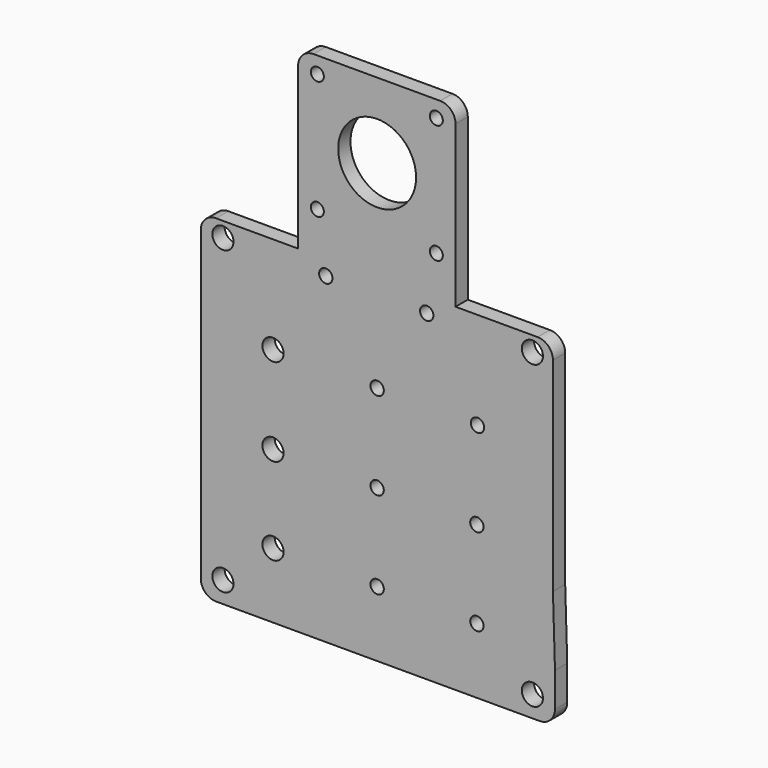
from build123d import *

# Parameters (mm, degrees)
F0_R     = 4.378782
F0_R_2   = 2.76225
F0_R_3   = 2.687849
F0_R_4   = 16.129
F1_DEPTH = 6.35


with BuildPart() as f1:
    # F0 (on Front) → F1 (new body)
    with BuildSketch(Plane.XZ):
        with BuildLine():
            ThreePointArc((72.798445, 70.203419), (70.938573, 74.693547), (66.448445, 76.553419))
            Line((66.448445, 76.553419), (32.463245, 76.553419))
            Line((32.463245, 76.553419), (-32.713075, 76.553419))
            Line((-32.713075, 76.553419), (-66.68793, 76.553419))
            ThreePointArc((-66.68793, 76.553419), (-71.178058, 74.693547), (-73.03793, 70.203419))
            Line((-73.03793, 70.203419), (-73.03793, -14.149981))
            Line((-73.03793, -14.149981), (-73.03793, -42.597981))
            Line((-73.03793, -42.597981), (-73.03793, -56.796581))
            ThreePointArc((-73.03793, -56.796581), (-71.178058, -61.286709), (-66.68793, -63.146581))
            Line((-66.68793, -63.146581), (67.294603, -63.146581))
            ThreePointArc((67.294603, -63.146581), (71.784731, -61.286709), (73.644603, -56.796581))
            Line((73.644603, -56.796581), (73.644603, -42.585394))
            Line((73.644603, -42.585394), (72.798445, -14.149981))
            Line((72.798445, -14.149981), (72.798445, 70.203419))
        make_face()
        with Locations((-63.857384, -54.379197)):
            Circle(F0_R, mode=Mode.SUBTRACT)
        with Locations((-43.1257, -36.037387)):
            Circle(F0_R, mode=Mode.SUBTRACT)
        with Locations((0, -36.037387)):
            Circle(F0_R_2, mode=Mode.SUBTRACT)
        with Locations((-43.1257, 0)):
            Circle(F0_R, mode=Mode.SUBTRACT)
        with Locations((-43.1257, 36.328413)):
            Circle(F0_R, mode=Mode.SUBTRACT)
        Circle(F0_R_2, mode=Mode.SUBTRACT)
        with Locations((0, 36.328413)):
            Circle(F0_R_2, mode=Mode.SUBTRACT)
        with Locations((64.290133, -54.379197)):
            Circle(F0_R, mode=Mode.SUBTRACT)
        with Locations((41.31037, -36.037387)):
            Circle(F0_R_2, mode=Mode.SUBTRACT)
        with Locations((41.31037, 0)):
            Circle(F0_R_2, mode=Mode.SUBTRACT)
        with Locations((41.555846, 36.328413)):
            Circle(F0_R_2, mode=Mode.SUBTRACT)
        with Locations((-63.857384, 70.317715)):
            Circle(F0_R, mode=Mode.SUBTRACT)
        with Locations((-21.258876, 70.317715)):
            Circle(F0_R_2, mode=Mode.SUBTRACT)
        with Locations((20.534402, 70.317715)):
            Circle(F0_R_2, mode=Mode.SUBTRACT)
        with Locations((64.290133, 70.317715)):
            Circle(F0_R, mode=Mode.SUBTRACT)
        with BuildLine():
            Line((-32.713075, 76.553419), (32.463245, 76.553419))
            Line((32.463245, 76.553419), (32.463245, 143.199014))
            ThreePointArc((32.463245, 143.199014), (30.603373, 147.689142), (26.113245, 149.549014))
            Line((26.113245, 149.549014), (-26.363075, 149.549014))
            ThreePointArc((-26.363075, 149.549014), (-30.853203, 147.689142), (-32.713075, 143.199014))
            Line((-32.713075, 143.199014), (-32.713075, 76.553419))
        make_face()
        with Locations((-24.750255, 93.474232)):
            Circle(F0_R_3, mode=Mode.SUBTRACT)
        with Locations((0, 118.342943)):
            Circle(F0_R_4, mode=Mode.SUBTRACT)
        with Locations((-24.750255, 142.737532)):
            Circle(F0_R_3, mode=Mode.SUBTRACT)
        with Locations((24.513045, 93.474232)):
            Circle(F0_R_3, mode=Mode.SUBTRACT)
        with Locations((24.513045, 142.737532)):
            Circle(F0_R_3, mode=Mode.SUBTRACT)
    extrude(amount=F1_DEPTH)


solid = f1.part
